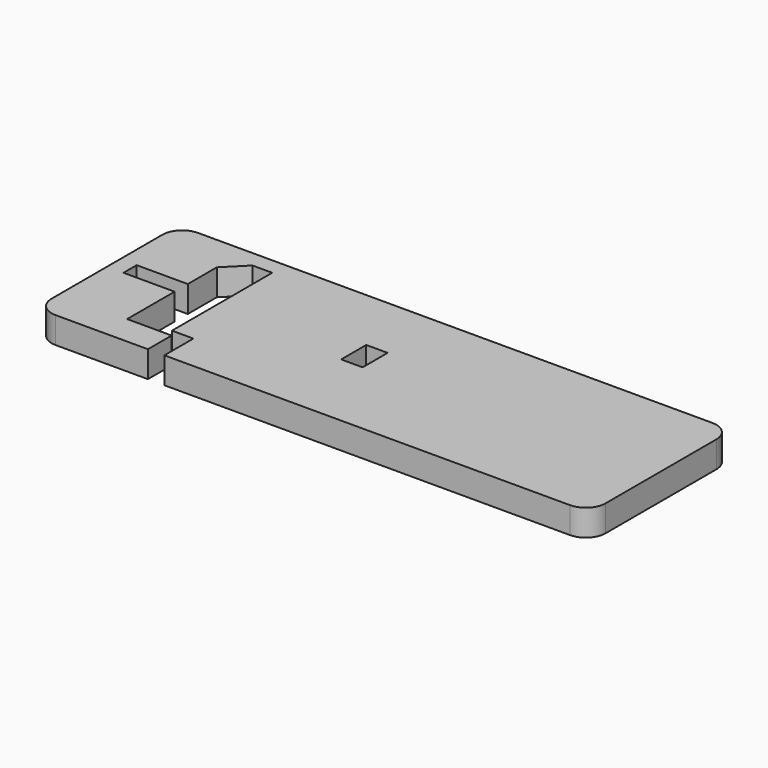
from build123d import *

# Parameters (mm, degrees)
F0_W     = 1066.8
F0_H     = 342.9
F1_DEPTH = 50.8
F2_W     = 41.275
F2_H     = 60.325
F3_DEPTH = 50.8
F4_R     = 38.1


with BuildPart() as f1:
    # F0 (on Top) → F1 (new body)
    with BuildSketch(Plane.XY):
        Rectangle(F0_W, F0_H)
    extrude(amount=F1_DEPTH)

    # F2 (on face) → F3 (cut)
    with BuildSketch(Plane.XY.offset(50.8)):
        Polygon((-317.5, -114.3), (-317.5, -171.45), (-285.75, -171.45), (-285.75, -101.6), (-327.025, -101.6), (-327.025, 139.7), (-365.125, 139.7), (-403.225, 101.537321), (-403.225, 31.75), (-501.65, 31.75), (-501.65, 0), (-403.225, 0), (-403.225, -114.3), align=None)
        with Locations((-49.2125, 14.2875)):
            Rectangle(F2_W, F2_H)
    extrude(amount=-F3_DEPTH, mode=Mode.SUBTRACT)

    # F4
    f4_edges = [f1.edges().sort_by_distance(p)[0] for p in [
        (-533.4, 171.45, 25.4),
        (-533.4, -171.45, 25.4),
        (533.4, 171.45, 25.4),
        (533.4, -171.45, 25.4),
    ]]
    fillet(f4_edges, radius=F4_R)


solid = f1.part
